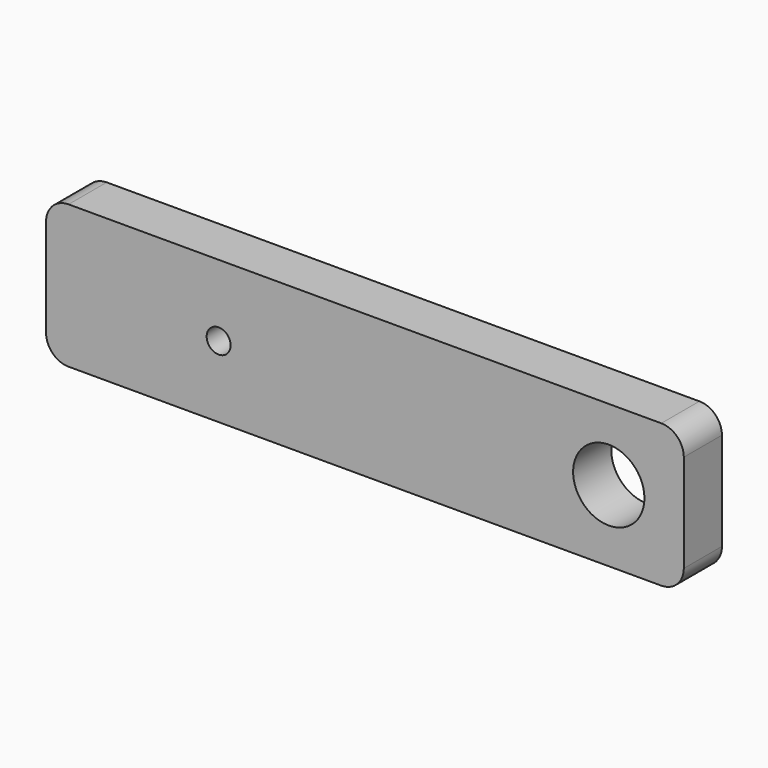
from build123d import *

# Parameters (mm, degrees)
F0_W     = 85
F0_H     = 19.05
F0_R     = 1.6
F0_R_2   = 4.75
F1_DEPTH = 6.35
F2_R     = 3
F3_R     = 1.5
F4_DEPTH = 5


with BuildPart() as f1:
    # F0 (on Front) → F1 (new body)
    with BuildSketch(Plane.XZ):
        with Locations((42.5, 9.525)):
            Rectangle(F0_W, F0_H)
        with Locations((23, 9.525)):
            Circle(F0_R, mode=Mode.SUBTRACT)
        with Locations((75, 9.525)):
            Circle(F0_R_2, mode=Mode.SUBTRACT)
    extrude(amount=F1_DEPTH)

    # F2
    f2_edges = [f1.edges().sort_by_distance(p)[0] for p in [
        (85, -3.175, 19.05),
        (85, -3.175, 0),
        (0, -3.175, 19.05),
        (0, -3.175, 0),
    ]]
    fillet(f2_edges, radius=F2_R)

    # F3 (on face) → F4 (cut)
    with BuildSketch(Plane(origin=(0, 0, 0), x_dir=(1, 0, 0), z_dir=(0, 0, -1))):
        with Locations((17, 3.175)):
            Circle(F3_R)
        with Locations((68, 3.175)):
            Circle(F3_R)
    extrude(amount=-F4_DEPTH, mode=Mode.SUBTRACT)


solid = f1.part
